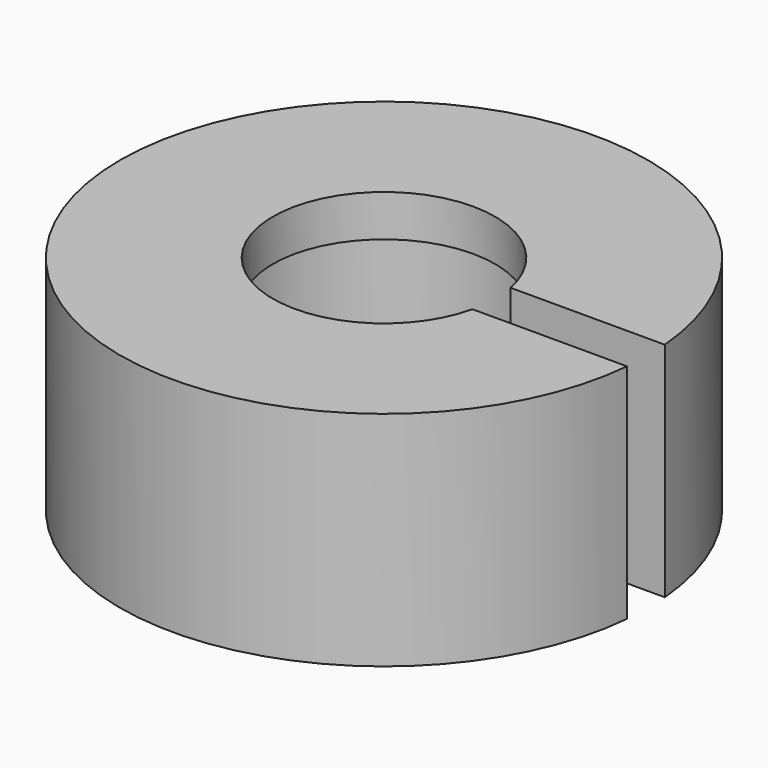
from build123d import *

# Parameters (mm, degrees)
F0_R     = 4.75
F1_DEPTH = 4
F2_R     = 2
F3_DEPTH = 4
F5_START = -0.75
F4_R     = 2.5
F5_DEPTH = 3.25
F6_W     = 3.7872615503
F6_H     = 0.8450912428
F7_DEPTH = 4


with BuildPart() as f1:
    # F0 (on Top) → F1 (new body)
    with BuildSketch(Plane.XY):
        Circle(F0_R)
    extrude(amount=F1_DEPTH)

    # F2 (on face) → F3 (cut)
    with BuildSketch(Plane.XY.offset(4)):
        Circle(F2_R)
    extrude(amount=-F3_DEPTH, mode=Mode.SUBTRACT)

    # F4 (on face) → F5 (cut)
    with BuildSketch(Plane.XY.offset(4).offset(F5_START)):
        Circle(F4_R)
    extrude(amount=-F5_DEPTH, mode=Mode.SUBTRACT)

    # F6 (on face) → F7 (cut)
    with BuildSketch(Plane.XY.offset(4)):
        with Locations((3.3074248931, -0.0251903548)):
            Rectangle(F6_W, F6_H)
    extrude(amount=-F7_DEPTH, mode=Mode.SUBTRACT)


solid = f1.part
